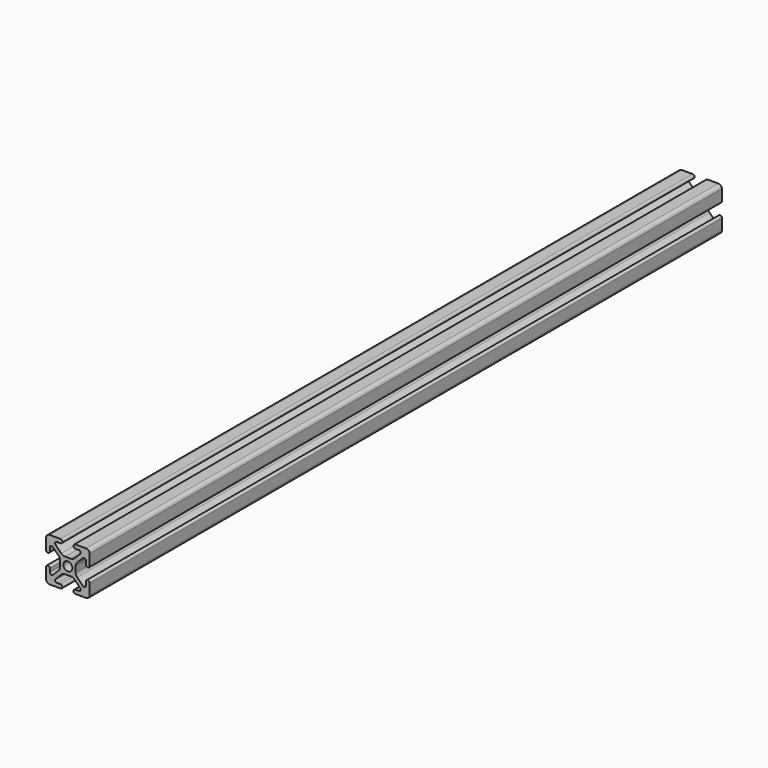
from build123d import *

# Parameters (mm, degrees)
F0_R     = 2.6035
F1_DEPTH = 460


with BuildPart() as f1:
    # F0 (on Front) → F1 (new body)
    with BuildSketch(Plane.XZ):
        with BuildLine():
            Line((-4.370089, 12.764578), (-10.618489, 12.764578))
            ThreePointArc((-10.618489, 12.764578), (-12.109211, 12.147101), (-12.726689, 10.656378))
            Line((-12.726689, 10.656378), (-12.726689, 4.407978))
            ThreePointArc((-12.726689, 4.407978), (-11.621789, 3.303078), (-10.516889, 4.407978))
            Line((-10.516889, 4.407978), (-10.516889, 6.464108))
            ThreePointArc((-10.516889, 6.464108), (-9.878719, 7.419196), (-8.752116, 7.195101))
            Line((-8.752116, 7.195101), (-5.465125, 3.90811))
            ThreePointArc((-5.465125, 3.90811), (-4.776871, 2.878066), (-4.535189, 1.663046))
            Line((-4.535189, 1.663046), (-4.535189, -1.533889))
            ThreePointArc((-4.535189, -1.533889), (-4.776871, -2.748909), (-5.465125, -3.778953))
            Line((-5.465125, -3.778953), (-8.752116, -7.065945))
            ThreePointArc((-8.752116, -7.065945), (-9.878719, -7.29004), (-10.516889, -6.334952))
            Line((-10.516889, -6.334952), (-10.516889, -4.278822))
            ThreePointArc((-10.516889, -4.278822), (-11.621789, -3.173922), (-12.726689, -4.278822))
            Line((-12.726689, -4.278822), (-12.726689, -10.527222))
            ThreePointArc((-12.726689, -10.527222), (-12.109211, -12.017944), (-10.618489, -12.635422))
            Line((-10.618489, -12.635422), (-4.370089, -12.635422))
            ThreePointArc((-4.370089, -12.635422), (-3.265189, -11.530522), (-4.370089, -10.425622))
            Line((-4.370089, -10.425622), (-6.426219, -10.425622))
            ThreePointArc((-6.426219, -10.425622), (-7.381307, -9.787452), (-7.157212, -8.660849))
            Line((-7.157212, -8.660849), (-3.87022, -5.373858))
            ThreePointArc((-3.87022, -5.373858), (-2.840176, -4.685604), (-1.625156, -4.443922))
            Line((-1.625156, -4.443922), (1.571779, -4.443922))
            ThreePointArc((1.571779, -4.443922), (2.786799, -4.685604), (3.816843, -5.373858))
            Line((3.816843, -5.373858), (7.103834, -8.660849))
            ThreePointArc((7.103834, -8.660849), (7.327929, -9.787452), (6.372841, -10.425622))
            Line((6.372841, -10.425622), (4.316711, -10.425622))
            ThreePointArc((4.316711, -10.425622), (3.211811, -11.530522), (4.316711, -12.635422))
            Line((4.316711, -12.635422), (10.565111, -12.635422))
            ThreePointArc((10.565111, -12.635422), (12.055834, -12.017944), (12.673311, -10.527222))
            Line((12.673311, -10.527222), (12.673311, -4.278822))
            ThreePointArc((12.673311, -4.278822), (11.568411, -3.173922), (10.463511, -4.278822))
            Line((10.463511, -4.278822), (10.463511, -6.334952))
            ThreePointArc((10.463511, -6.334952), (9.825342, -7.29004), (8.698738, -7.065945))
            Line((8.698738, -7.065945), (5.411747, -3.778953))
            ThreePointArc((5.411747, -3.778953), (4.723494, -2.748909), (4.481811, -1.533889))
            Line((4.481811, -1.533889), (4.481811, 1.663046))
            ThreePointArc((4.481811, 1.663046), (4.723494, 2.878066), (5.411747, 3.90811))
            Line((5.411747, 3.90811), (8.698738, 7.195101))
            ThreePointArc((8.698738, 7.195101), (9.825342, 7.419196), (10.463511, 6.464108))
            Line((10.463511, 6.464108), (10.463511, 4.407978))
            ThreePointArc((10.463511, 4.407978), (11.568411, 3.303078), (12.673311, 4.407978))
            Line((12.673311, 4.407978), (12.673311, 10.656378))
            ThreePointArc((12.673311, 10.656378), (12.055834, 12.147101), (10.565111, 12.764578))
            Line((10.565111, 12.764578), (4.316711, 12.764578))
            ThreePointArc((4.316711, 12.764578), (3.211811, 11.659678), (4.316711, 10.554778))
            Line((4.316711, 10.554778), (6.372841, 10.554778))
            ThreePointArc((6.372841, 10.554778), (7.327929, 9.916609), (7.103834, 8.790005))
            Line((7.103834, 8.790005), (3.816843, 5.503014))
            ThreePointArc((3.816843, 5.503014), (2.786799, 4.814761), (1.571779, 4.573078))
            Line((1.571779, 4.573078), (-1.625156, 4.573078))
            ThreePointArc((-1.625156, 4.573078), (-2.840176, 4.814761), (-3.87022, 5.503014))
            Line((-3.87022, 5.503014), (-7.157212, 8.790005))
            ThreePointArc((-7.157212, 8.790005), (-7.381307, 9.916609), (-6.426219, 10.554778))
            Line((-6.426219, 10.554778), (-4.370089, 10.554778))
            ThreePointArc((-4.370089, 10.554778), (-3.265189, 11.659678), (-4.370089, 12.764578))
        make_face()
        with Locations((-0.026689, 0.064578)):
            Circle(F0_R, mode=Mode.SUBTRACT)
    extrude(amount=F1_DEPTH)


solid = f1.part
